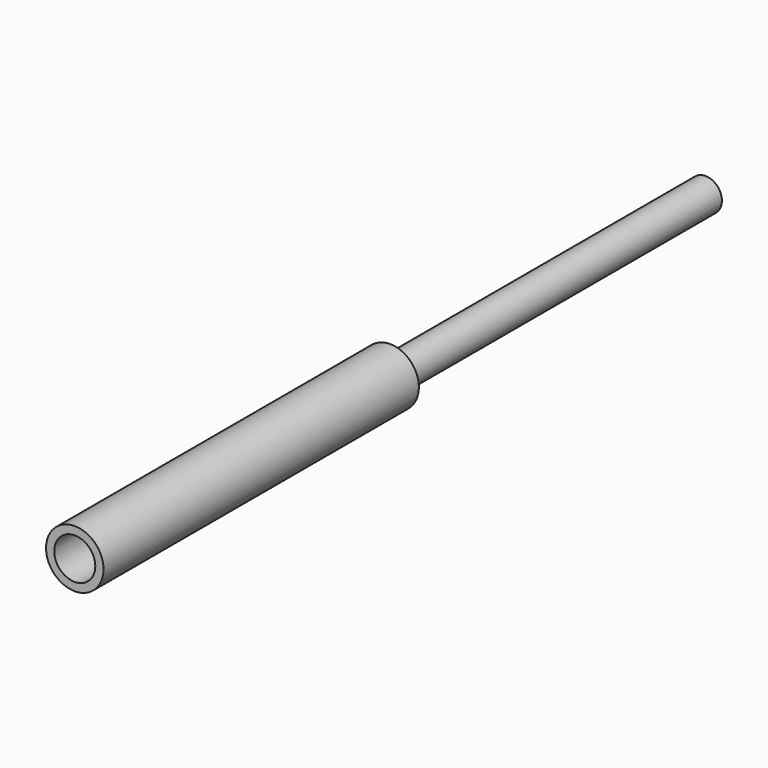
from build123d import *

# Parameters (mm, degrees)
F0_R     = 22.225
F0_R_2   = 15.875
F1_DEPTH = 304.8
F0_R_3   = 12.7
F0_R_4   = 6.35
F2_DEPTH = 304.8


with BuildPart() as f1:
    # F0 (on Front) → F1 (new body)
    with BuildSketch(Plane.XZ):
        Circle(F0_R)
        Circle(F0_R_2, mode=Mode.SUBTRACT)
    extrude(amount=F1_DEPTH)


with BuildPart() as f2:
    # F0 (on Front) → F2 (new body)
    with BuildSketch(Plane.XZ):
        Circle(F0_R_3)
        Circle(F0_R_4, mode=Mode.SUBTRACT)
    extrude(amount=-F2_DEPTH)


solid = Compound([f1.part, f2.part])
